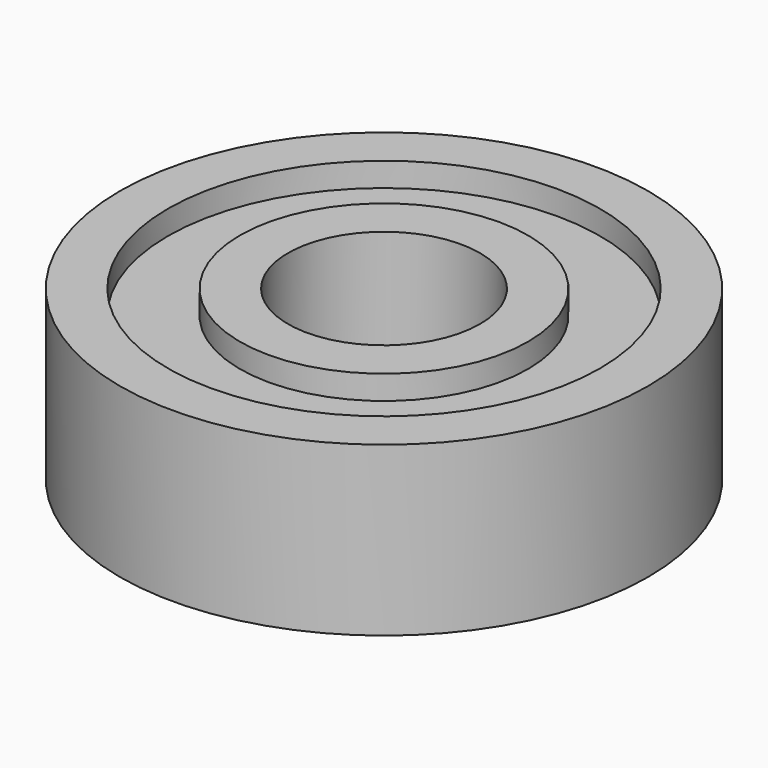
from build123d import *

# Parameters (mm, degrees)
F0_R     = 11
F0_R_2   = 9
F1_DEPTH = 7
F0_R_3   = 6
F0_R_4   = 4
F2_START = 1
F2_DEPTH = 5


with BuildPart() as f1:
    # F0 (on Top) → F1 (new body)
    with BuildSketch(Plane.XY):
        Circle(F0_R)
        Circle(F0_R_2, mode=Mode.SUBTRACT)
    extrude(amount=F1_DEPTH)



with BuildPart() as f1b:
    # F0 (on Top) → F1, piece 2 (new body)
    with BuildSketch(Plane.XY):
        Circle(F0_R_3)
        Circle(F0_R_4, mode=Mode.SUBTRACT)
    extrude(amount=F1_DEPTH)


with BuildPart() as f1_1:
    add(f1.part)

    add(f1b.part)  # F2 merges F1b
    # F0 (on Top) → F2 (join)
    with BuildSketch(Plane.XY.offset(F2_START)):
        Circle(F0_R_2)
        Circle(F0_R_3, mode=Mode.SUBTRACT)
    extrude(amount=F2_DEPTH)


solid = f1_1.part
